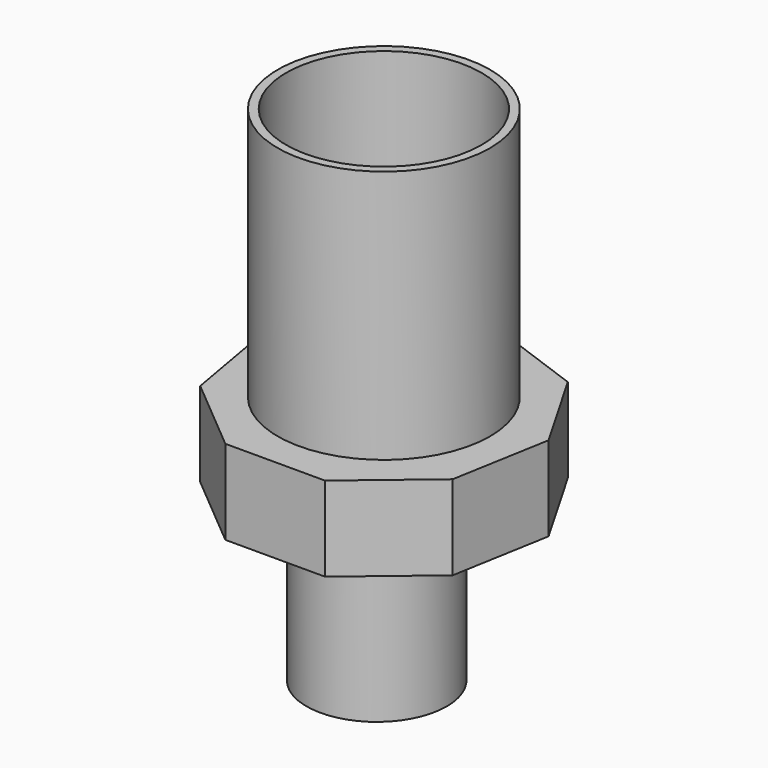
from build123d import *

# Parameters (mm, degrees)
F0_R     = 31.8925306259
F1_DEPTH = 101.6
F3_DEPTH = 25.4
F4_T     = -2.54
F5_R     = 21.061659134
F6_DEPTH = 50.8
F8_D     = 38.1


with BuildPart() as f1:
    # F0 (on Top) → F1 (new body)
    with BuildSketch(Plane.XY):
        with Locations((-10.7217477635, 10.721755214)):
            Circle(F0_R)
    extrude(amount=F1_DEPTH)

    # F2 (on Top) → F3 (join)
    with BuildSketch(Plane.XY):
        Polygon((-24.9478270625, -31.0014169663), (4.9917486821, -31.0014169663), (27.9267943106, -11.7566286384), (33.1257470788, 17.7280976768), (18.1559592065, 43.6565308501), (-9.9780391902, 53.8964688374), (-38.1120375868, 43.6565308501), (-53.0818254591, 17.7280976768), (-47.882872691, -11.7566286384), align=None)
    extrude(amount=F3_DEPTH)

    # F4
    f4_openings = [f1.faces().sort_by_distance(p)[0] for p in [
        (-10.721748, 10.721755, 101.6),
    ]]
    offset(amount=F4_T, openings=f4_openings, kind=Kind.INTERSECTION)

    # F5 (on face) → F6 (join)
    with BuildSketch(Plane(origin=(0, 0, 0), x_dir=(1, 0, 0), z_dir=(0, 0, -1))):
        with Locations((-13.595267199, -11.6091426462)):
            Circle(F5_R)
    extrude(amount=F6_DEPTH)

    # F8 (through all)
    with Locations(Plane(origin=(0, 0, -50.8), x_dir=(1, 0, 0), z_dir=(0, 0, -1))):
        with Locations((-13.595267199, -11.6091426462)):
            Hole(F8_D / 2)


solid = f1.part
